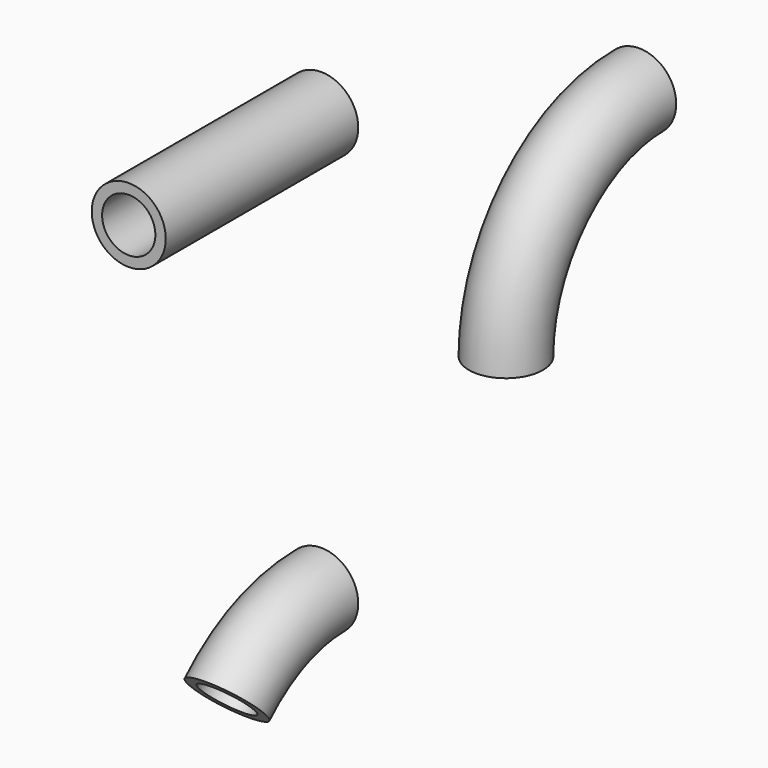
from build123d import *

# Parameters (mm, degrees)
F0_R     = 3.175
F0_R_2   = 2.286
F4_R     = 3.175
F4_R_2   = 2.286
F8_R     = 3.175
F8_R_2   = 2.286
F9_DEPTH = 20.6375


with BuildPart() as f2:
    # F2: sweep along a path in F1
    with BuildLine(Plane.YZ) as f2_path:
        ThreePointArc((0, 0), (-10.102788, -4.184712), (-14.2875, -14.2875))
    # F0 (on Front) → F2 (sweep)
    with BuildSketch(Plane.XZ):
        Circle(F0_R)
        Circle(F0_R_2, mode=Mode.SUBTRACT)
    sweep(path=f2_path.line)


with BuildPart() as f5:
    # F5: sweep along a path in F3
    with BuildLine(Plane.YZ) as f5_path:
        ThreePointArc((0, 0), (-5.46759, -1.087571), (-10.102788, -4.184712))
    # F4 (on Front) → F5 (sweep)
    with BuildSketch(Plane.XZ):
        Circle(F4_R)
        Circle(F4_R_2, mode=Mode.SUBTRACT)
    sweep(path=f5_path.line)


with BuildPart() as f6_1:
    # F6: copy of F2
    add(f2.part.moved(Location((0, 34.08918, 0))))


with BuildPart() as f9:
    # F8 (on Front) → F9 (new body)
    with BuildSketch(Plane.XZ):
        with Locations((0, 12.069176)):
            Circle(F8_R)
        with Locations((0, 12.069176)):
            Circle(F8_R_2, mode=Mode.SUBTRACT)
    extrude(amount=F9_DEPTH)


with BuildPart() as f10_1:
    # F10: copy of F5
    add(f5.part.moved(Location((0, 0, -23.86129))))


solid = Compound([f6_1.part, f9.part, f10_1.part])
